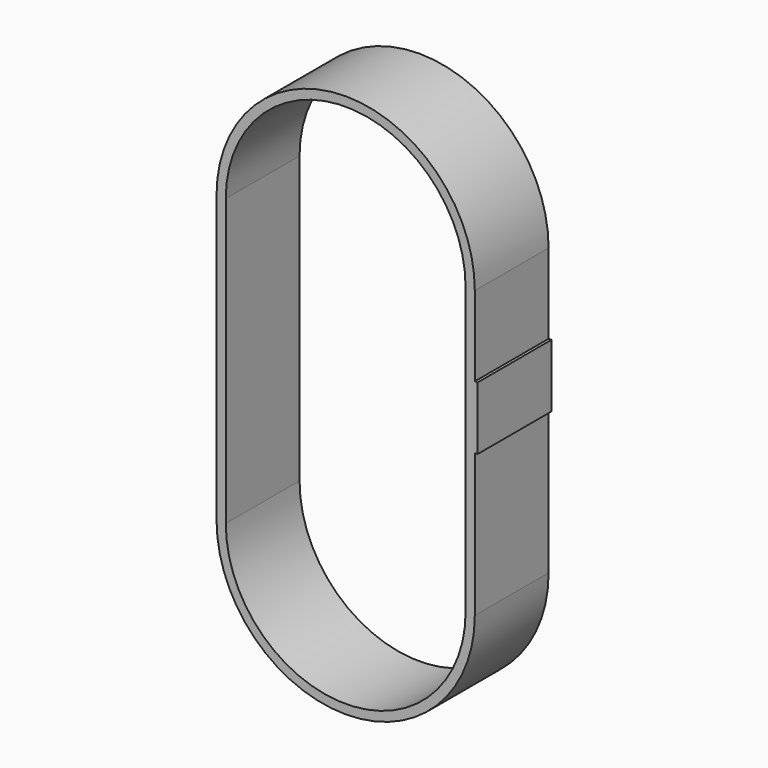
from build123d import *

# Parameters (mm, degrees)
F1_DEPTH = 25.4
F2_T     = -2.54
F3_W     = 25.4
F3_H     = 17.367277
F4_DEPTH = 0.7874


with BuildPart() as f1:
    # F0 (on Front) → F1 (new body)
    with BuildSketch(Plane.XZ):
        with BuildLine():
            ThreePointArc((17.045487, 22.002723), (-18.514513, 57.562723), (-54.074513, 22.002723))
            Line((-54.074513, 22.002723), (-54.074513, -56.737277))
            ThreePointArc((-54.074513, -56.737277), (-18.514513, -92.297277), (17.045487, -56.737277))
            Line((17.045487, -56.737277), (17.045487, 22.002723))
        make_face()
    extrude(amount=F1_DEPTH)

    # F2
    f2_openings = [f1.faces().sort_by_distance(p)[0] for p in [
        (-18.514513, -25.4, -17.367277),
        (-18.514513, 0, -17.367277),
    ]]
    offset(amount=F2_T, openings=f2_openings)

    # F3 (on face) → F4 (join)
    with BuildSketch(Plane.YZ.offset(17.045487)):
        with Locations((-12.7, -8.683638)):
            Rectangle(F3_W, F3_H)
    extrude(amount=F4_DEPTH)


solid = f1.part
